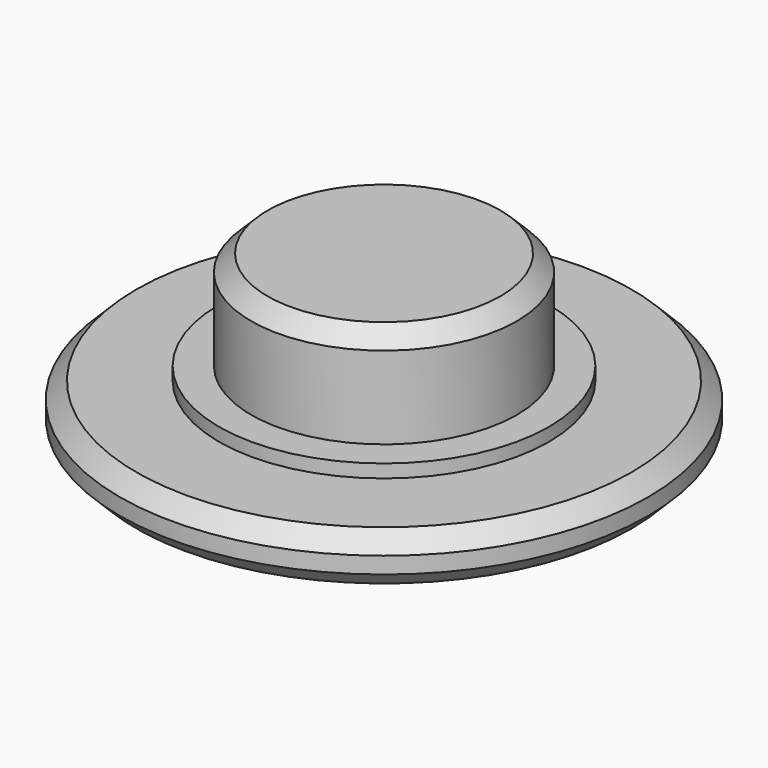
from build123d import *

# Parameters (mm, degrees)
F0_R     = 8
F1_DEPTH = 1.5
F2_R     = 5
F3_DEPTH = 0.4
F4_R     = 4.025
F5_DEPTH = 3
F6_SIZE  = 0.5


with BuildPart() as f1:
    # F0 (on Top) → F1 (new body)
    with BuildSketch(Plane.XY):
        Circle(F0_R)
    extrude(amount=F1_DEPTH)

    # F2 (on face) → F3 (join)
    with BuildSketch(Plane.XY.offset(1.5)):
        Circle(F2_R)
    extrude(amount=F3_DEPTH)

    # F4 (on face) → F5 (join)
    with BuildSketch(Plane.XY.offset(1.9)):
        Circle(F4_R)
    extrude(amount=F5_DEPTH)

    # F6
    f6_edges = [f1.edges().sort_by_distance(p)[0] for p in [
        (-8, 0, 0),
        (-8, 0, 1.5),
        (-4.025, 0, 4.9),
    ]]
    chamfer(f6_edges, length=F6_SIZE)

    # F7 (on Front) → F8 (revolve, cut)
    with BuildSketch(Plane.XZ):
        Polygon((0, 4.170951), (-4.970746, 0), (0, 0), align=None)
    revolve(axis=Axis((0, 0, 2.085476), (0, 0, -1)), mode=Mode.SUBTRACT)


solid = f1.part
